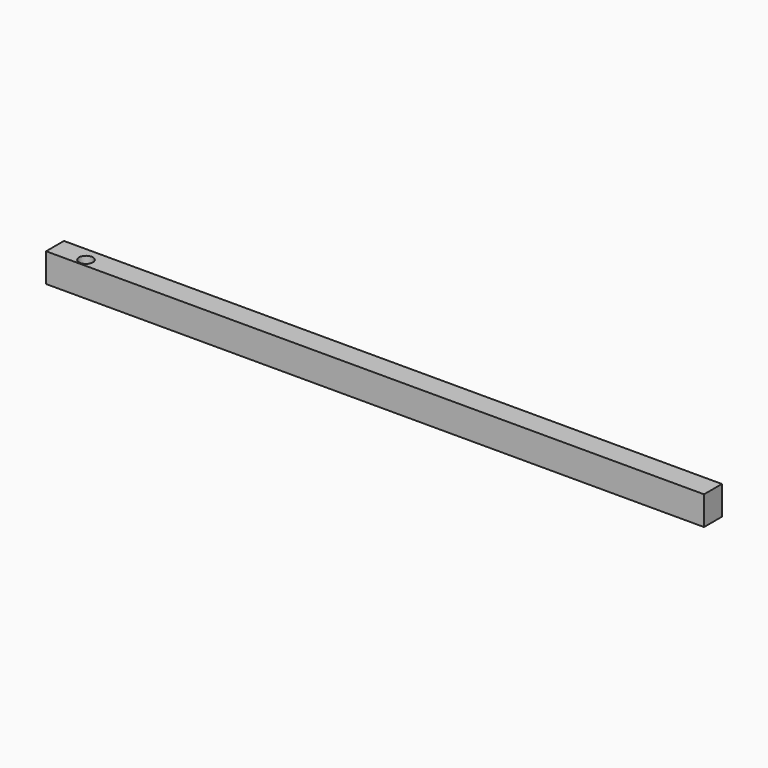
from build123d import *

# Parameters (mm, degrees)
F0_W     = 141.995058
F0_H     = 6.228168
F1_DEPTH = 4.826
F2_R     = 1.487824
F3_DEPTH = 29.116055


with BuildPart() as f1:
    # F0 (on Front) → F1 (new body)
    with BuildSketch(Plane.XZ):
        with Locations((0.731975, 26.000971)):
            Rectangle(F0_W, F0_H)
    extrude(amount=F1_DEPTH)

    # F2 (on Top) → F3 (cut, through all)
    with BuildSketch(Plane.XY):
        with Locations((-63.058226, -3.066381)):
            Circle(F2_R)
    extrude(amount=F3_DEPTH, mode=Mode.SUBTRACT)


solid = f1.part
